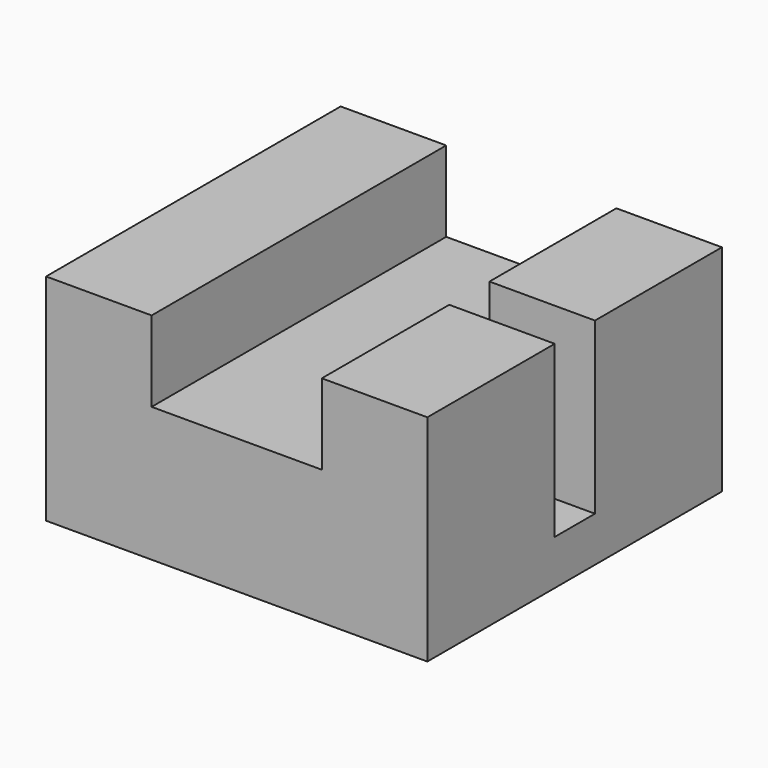
from build123d import *

# Parameters (mm, degrees)
F0_R     = 9.4158486149
F1_DEPTH = 25.4
F4_DEPTH = 27.5
F5_W     = 15.7655179501
F5_H     = 7.5176365208
F6_DEPTH = 25.4


with BuildPart() as f1:
    # F0 (on Front) → F1 (new body)
    with BuildSketch(Plane.XZ):
        with BuildLine():
            Line((-26.7482474446, -27.6464950293), (26.7482474446, -27.6464950293))
            Line((26.7482474446, -27.6464950293), (26.7482474446, 27.6464950293))
            ThreePointArc((26.7482474446, 27.6464950293), (0, 0.8982475847), (-26.7482474446, 27.6464950293))
            Line((-26.7482474446, 27.6464950293), (-26.7482474446, -27.6464950293))
        make_face()
        with BuildLine():
            ThreePointArc((-26.7482474446, 27.6464950293), (0, 0.8982475847), (26.7482474446, 27.6464950293))
            ThreePointArc((26.7482474446, 27.6464950293), (0, 54.394742474), (-26.7482474446, 27.6464950293))
        make_face()
        with Locations((0, 27.6464950293)):
            Circle(F0_R, mode=Mode.SUBTRACT)
    extrude(amount=F1_DEPTH)


with BuildPart() as f4:
    # F3 (on Front) → F4 (new body, symmetric)
    with BuildSketch(Plane.XZ):
        Polygon((0, 32.1222431958), (0, 0), (56.9529347122, 0), (56.9529347122, 32.1222431958), (41.1874167621, 32.1222431958), (41.1874167621, 20.1010350138), (15.7655179501, 20.1010350138), (15.7655179501, 32.1222431958), align=None)
    extrude(amount=F4_DEPTH, both=True)

    # F5 (on face) → F6 (cut)
    with BuildSketch(Plane.XY.offset(32.1222431958)):
        with Locations((49.0701757371, 0.0409217319)):
            Rectangle(F5_W, F5_H)
    extrude(amount=-F6_DEPTH, mode=Mode.SUBTRACT)


solid = f4.part
